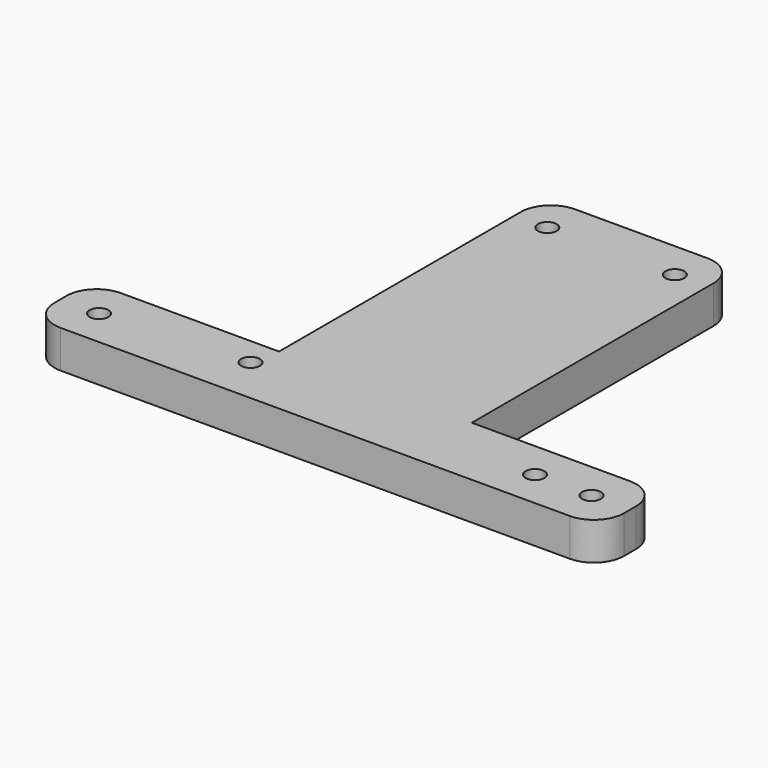
from build123d import *

# Parameters (mm, degrees)
F0_W     = 32.4993
F0_H     = 55.99938
F1_DEPTH = 6.35
F2_R     = 1.5875
F3_DEPTH = 25.4
F4_R     = 5.08
F6_DEPTH = 25.4


with BuildPart() as f1:
    # F0 (on Top) → F1 (new body)
    with BuildSketch(Plane.XY):
        Polygon((-48.424426, 12.7), (-48.424426, 0), (47.574874, 0), (47.574874, 12.7), (15.824874, 12.7), (-16.674426, 12.7), align=None)
        with Locations((-0.424776, 40.69969)):
            Rectangle(F0_W, F0_H)
    extrude(amount=F1_DEPTH)

    # F2 (on face) → F3 (cut)
    with BuildSketch(Plane.XY.offset(6.35)):
        with Locations((41.075014, 6.35)):
            Circle(F2_R)
        with Locations((-41.924566, 6.35)):
            Circle(F2_R)
        with Locations((-11.175326, 62.34938)):
            Circle(F2_R)
        with Locations((10.325774, 62.34938)):
            Circle(F2_R)
    extrude(amount=-F3_DEPTH, mode=Mode.SUBTRACT)

    # F4
    f4_edges = [f1.edges().sort_by_distance(p)[0] for p in [
        (47.574874, 12.7, 3.175),
        (47.574874, 0, 3.175),
        (-48.424426, 0, 3.175),
        (-48.424426, 12.7, 3.175),
        (15.824874, 68.69938, 3.175),
        (-16.674426, 68.69938, 3.175),
    ]]
    fillet(f4_edges, radius=F4_R)

    # F5 (on face) → F6 (cut)
    with BuildSketch(Plane.XY.offset(6.35)):
        with BuildLine():
            ThreePointArc((-16.074986, 7.9375), (-18.785018, 9.060032), (-17.662486, 6.35))
            ThreePointArc((-17.662486, 6.35), (-16.539954, 6.814968), (-16.074986, 7.9375))
        make_face()
        with BuildLine():
            ThreePointArc((29.962514, 6.35), (31.550014, 4.7625), (33.137514, 6.35))
            ThreePointArc((33.137514, 6.35), (31.550014, 7.9375), (29.962514, 6.35))
        make_face()
    extrude(amount=-F6_DEPTH, mode=Mode.SUBTRACT)


solid = f1.part
